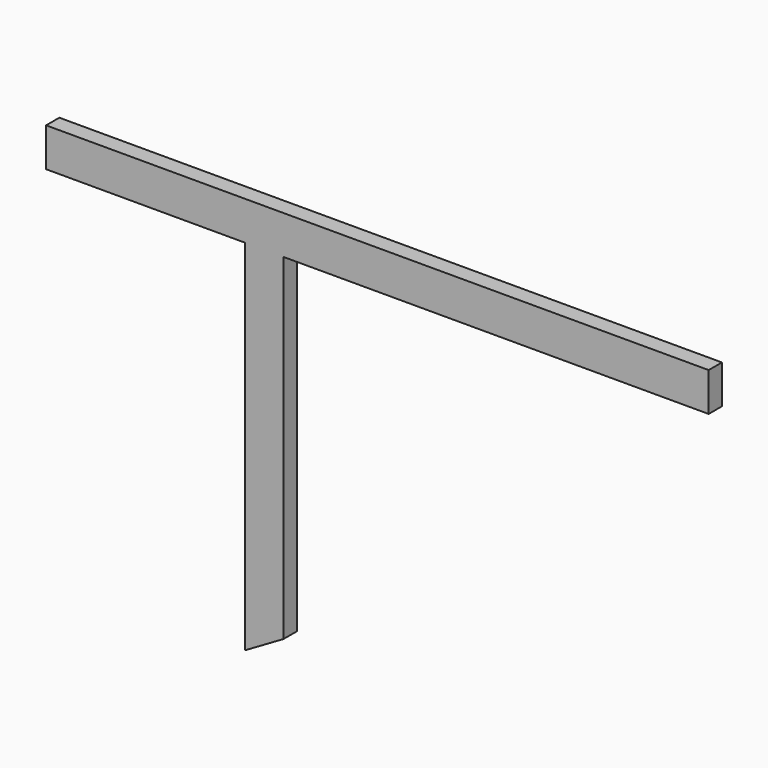
from build123d import *

# Parameters (mm, degrees)
F0_W     = 457.2
F0_H     = 88.9
F0_W_2   = 88.9
F0_W_3   = 977.9
F1_DEPTH = 19.05


with BuildPart() as f1:
    # F0 (on Front) → F1 (new body, symmetric)
    with BuildSketch(Plane.XZ):
        with Locations((-273.05, 412.75)):
            Rectangle(F0_W, F0_H)
        with Locations((0, 412.75)):
            Rectangle(F0_W_2, F0_H)
        with Locations((533.4, 412.75)):
            Rectangle(F0_W_3, F0_H)
        Polygon((44.45, 368.3), (-44.45, 368.3), (-44.45, -457.2), (44.45, -405.418647), align=None)
    extrude(amount=F1_DEPTH, both=True)


solid = f1.part
